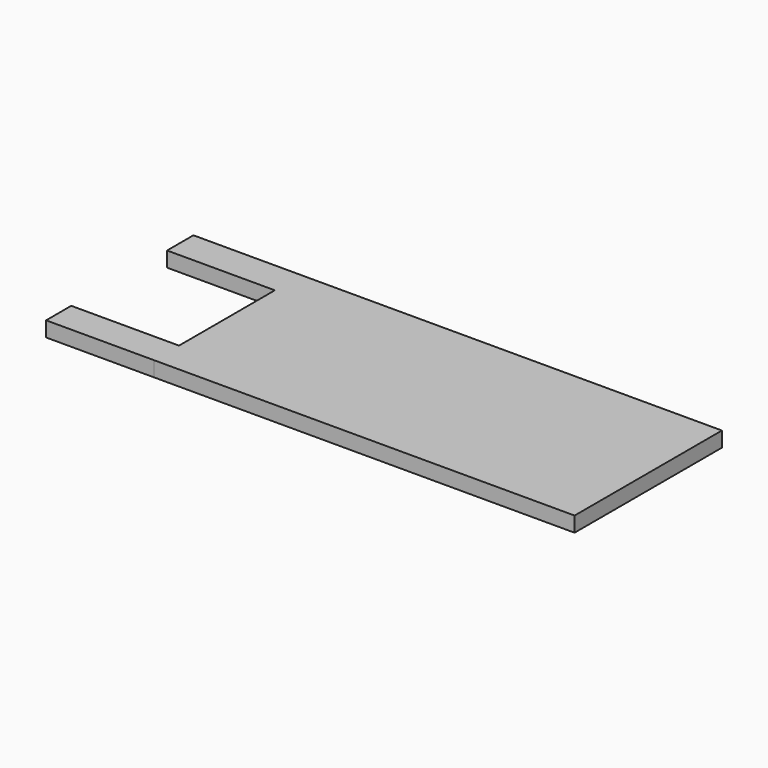
from build123d import *

# Parameters (mm, degrees)
F0_W     = 88.341098
F0_H     = 38.66888
F1_DEPTH = 3.175
F2_W     = 22.6314
F2_H     = 6.916385
F3_DEPTH = 3.175
F4_W     = 22.6314
F4_H     = 6.602003
F5_DEPTH = 3.175


with BuildPart() as f1:
    # F0 (on Top) → F1 (new body)
    with BuildSketch(Plane.XY):
        with Locations((0.943141, 1.729096)):
            Rectangle(F0_W, F0_H)
    extrude(amount=F1_DEPTH)

    # F2 (on face) → F3 (join)
    with BuildSketch(Plane.XY.offset(3.175)):
        with Locations((-54.543108, 17.605344)):
            Rectangle(F2_W, F2_H)
    extrude(amount=-F3_DEPTH)

    # F4 (on face) → F5 (join)
    with BuildSketch(Plane.XY.offset(3.175)):
        with Locations((-54.543108, -14.304342)):
            Rectangle(F4_W, F4_H)
    extrude(amount=-F5_DEPTH)


solid = f1.part
